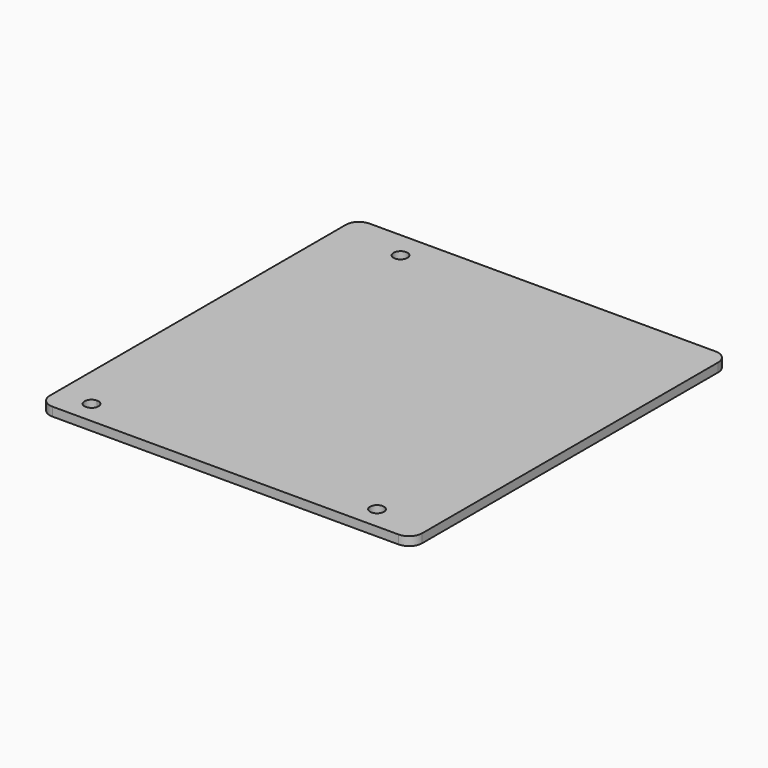
from build123d import *

# Parameters (mm, degrees)
F1_DEPTH = 2


with BuildPart() as f1:
    # F0 (on Top) → F1 (new body)
    with BuildSketch(Plane.XY):
        with BuildLine():
            ThreePointArc((-41.868949, 43.980121), (-43.456449, 45.567621), (-45.043949, 43.980121))
            ThreePointArc((-45.043949, 43.980121), (-43.456449, 42.392621), (-41.868949, 43.980121))
        make_face()
        with BuildLine():
            Line((23.405551, 50.068121), (-55.394449, 50.068121))
            ThreePointArc((-55.394449, 50.068121), (-57.51577, 49.189441), (-58.394449, 47.068121))
            Line((-58.394449, 47.068121), (-58.394449, -37.181879))
            ThreePointArc((-58.394449, -37.181879), (-57.51577, -39.303199), (-55.394449, -40.181879))
            Line((-55.394449, -40.181879), (23.405551, -40.181879))
            ThreePointArc((23.405551, -40.181879), (25.526871, -39.303199), (26.405551, -37.181879))
            Line((26.405551, -37.181879), (26.405551, -34.977879))
            Line((26.405551, -34.977879), (26.405551, 47.068121))
            ThreePointArc((26.405551, 47.068121), (25.526871, 49.189441), (23.405551, 50.068121))
        make_face()
        with BuildLine():
            ThreePointArc((-50.639449, -33.390379), (-49.516917, -33.855347), (-49.051949, -34.977879))
            ThreePointArc((-49.051949, -34.977879), (-51.761981, -36.100411), (-50.639449, -33.390379))
        make_face(mode=Mode.SUBTRACT)
        with BuildLine():
            ThreePointArc((12.773051, -34.977879), (14.360551, -33.390379), (15.948051, -34.977879))
            ThreePointArc((15.948051, -34.977879), (14.360551, -36.565379), (12.773051, -34.977879))
        make_face(mode=Mode.SUBTRACT)
        with BuildLine():
            ThreePointArc((-41.868949, 43.980121), (-43.456449, 42.392621), (-45.043949, 43.980121))
            ThreePointArc((-45.043949, 43.980121), (-43.456449, 45.567621), (-41.868949, 43.980121))
        make_face(mode=Mode.SUBTRACT)
    extrude(amount=F1_DEPTH)


solid = f1.part
